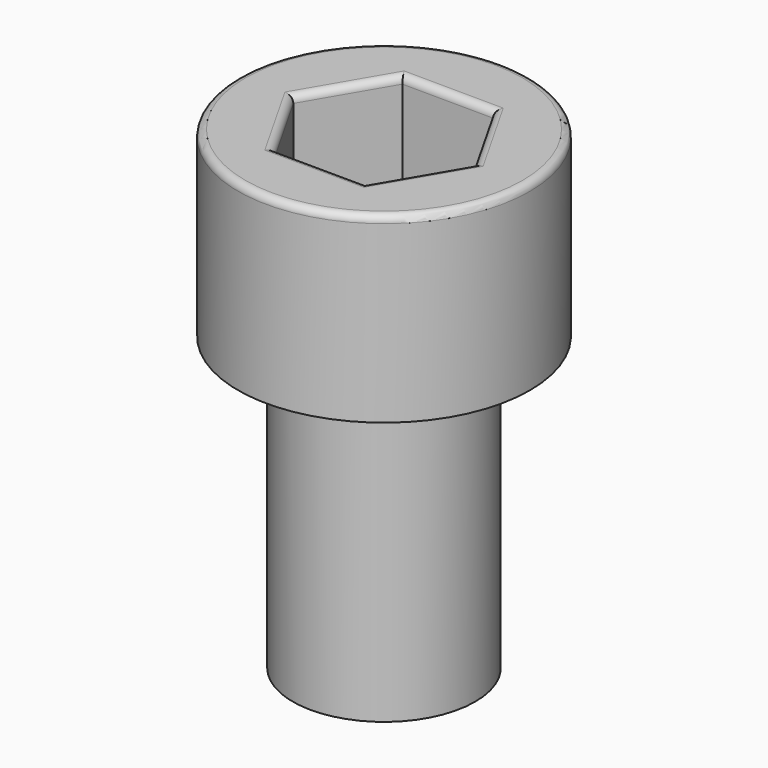
from build123d import *

# Parameters (mm, degrees)
F1_R     = 2.5
F2_DEPTH = 13
F0_R     = 4
F3_DEPTH = 5
F5_DEPTH = 3
F6_R     = 0.2


with BuildPart() as f2:
    # F1 (on face) → F2 (new body)
    with BuildSketch(Plane.XY):
        Circle(F1_R)
    extrude(amount=-F2_DEPTH)

    # F0 (on Top) → F3 (join)
    with BuildSketch(Plane.XY):
        Circle(F0_R)
    extrude(amount=-F3_DEPTH)

    # F4 (on Top) → F5 (cut)
    with BuildSketch(Plane.XY):
        Polygon((2.4999327503, -0.0183369572), (1.265846646, 2.1558367909), (-1.2340861043, 2.1741737481), (-2.4999327503, 0.0183369572), (-1.265846646, -2.1558367909), (1.2340861043, -2.1741737481), align=None)
    extrude(amount=-F5_DEPTH, mode=Mode.SUBTRACT)

    # F6
    f6_edges = [f2.edges().sort_by_distance(p)[0] for p in [
        (1.867009, -1.096255, 0),
        (-4, 0, 0),
        (1.88289, 1.06875, 0),
        (0.01588, 2.165005, 0),
        (-1.867009, 1.096255, 0),
        (-1.88289, -1.06875, 0),
        (-0.01588, -2.165005, 0),
    ]]
    fillet(f6_edges, radius=F6_R)


solid = f2.part
